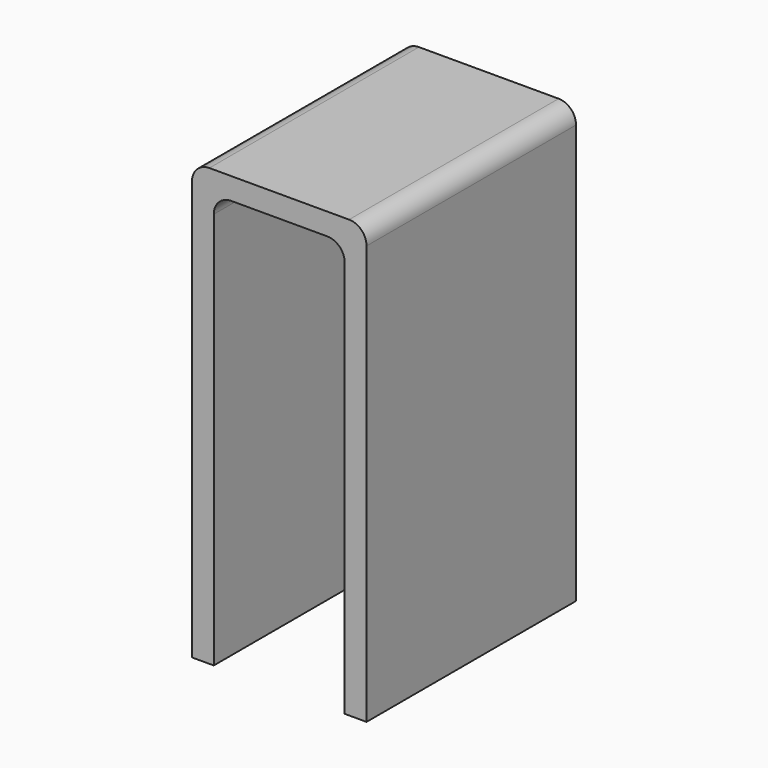
from build123d import *

# Parameters (mm, degrees)
F1_DEPTH      = 38.1
F1_DEPTH_BACK = 38.1
F2_R          = 5.08


with BuildPart() as f1:
    # F0 (on Front) → F1 (new body, two sides)
    with BuildSketch(Plane.XZ) as f1_sk:
        Polygon((-31.75, 69.85), (-31.75, -57.15), (-25.4, -57.15), (-25.4, 63.5), (12.7, 63.5), (12.7, -57.15), (19.05, -57.15), (19.05, 69.85), align=None)
    extrude(amount=F1_DEPTH)
    extrude(f1_sk.sketch, amount=-F1_DEPTH_BACK)

    # F2
    f2_edges = [f1.edges().sort_by_distance(p)[0] for p in [
        (-31.75, 0, 69.85),
        (19.05, 0, 69.85),
        (-25.4, 0, 63.5),
        (12.7, 0, 63.5),
    ]]
    fillet(f2_edges, radius=F2_R)


solid = f1.part
